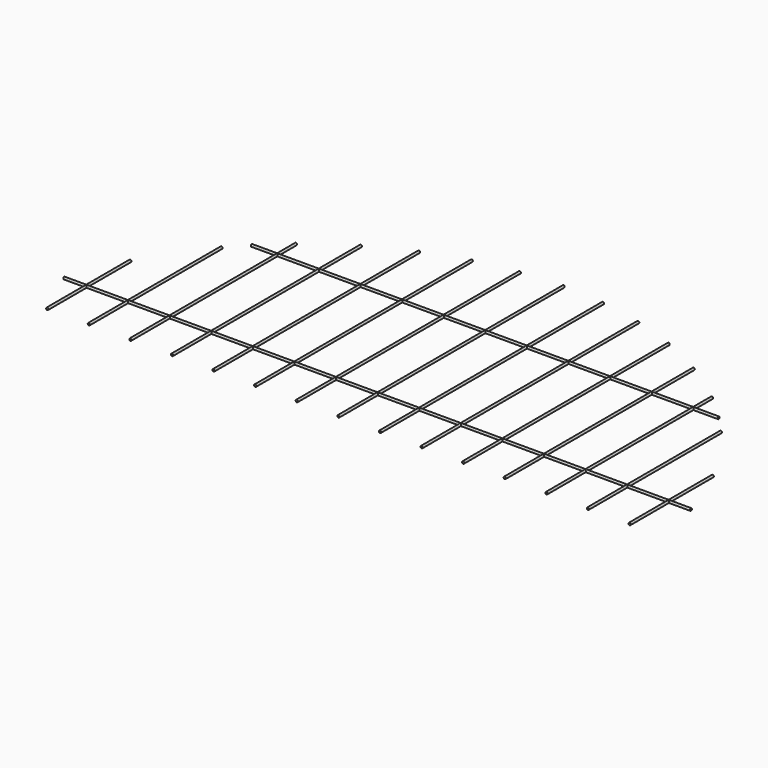
from build123d import *

# Parameters (mm, degrees)
F2_R  = 4.7625
F18_R = 4.7625


with BuildPart() as f3:
    # F3: sweep along a path in F0
    with BuildLine(Plane.XY) as f3_path:
        Line((-1209.04, 0), (-1209.04, 430.831865))
    # F2 (on Front) → F3 (sweep)
    with BuildSketch(Plane.XZ):
        with Locations((-1209.04, 0)):
            Circle(F2_R)
    sweep(path=f3_path.line)


with BuildPart() as f4:
    # F4: sweep along a path in F0
    with BuildLine(Plane.XY) as f4_path:
        Line((-1036.32, 0), (-1036.32, 688.956807))
    # F2 (on Front) → F4 (sweep)
    with BuildSketch(Plane.XZ):
        with Locations((-1036.32, 0)):
            Circle(F2_R)
    sweep(path=f4_path.line)


with BuildPart() as f5:
    # F5: sweep along a path in F0
    with BuildLine(Plane.XY) as f5_path:
        Line((-863.6, 0), (-863.6, 858.93646))
    # F2 (on Front) → F5 (sweep)
    with BuildSketch(Plane.XZ):
        with Locations((-863.6, 0)):
            Circle(F2_R)
    sweep(path=f5_path.line)


with BuildPart() as f6:
    # F6: sweep along a path in F0
    with BuildLine(Plane.XY) as f6_path:
        Line((-690.88, 0), (-690.88, 979.801864))
    # F2 (on Front) → F6 (sweep)
    with BuildSketch(Plane.XZ):
        with Locations((-690.88, 0)):
            Circle(F2_R)
    sweep(path=f6_path.line)


with BuildPart() as f7:
    # F7: sweep along a path in F0
    with BuildLine(Plane.XY) as f7_path:
        Line((-518.16, 0), (-518.16, 1065.799878))
    # F2 (on Front) → F7 (sweep)
    with BuildSketch(Plane.XZ):
        with Locations((-518.16, 0)):
            Circle(F2_R)
    sweep(path=f7_path.line)


with BuildPart() as f8:
    # F8: sweep along a path in F0
    with BuildLine(Plane.XY) as f8_path:
        Line((-345.44, 0), (-345.44, 1123.788521))
    # F2 (on Front) → F8 (sweep)
    with BuildSketch(Plane.XZ):
        with Locations((-345.44, 0)):
            Circle(F2_R)
    sweep(path=f8_path.line)


with BuildPart() as f9:
    # F9: sweep along a path in F0
    with BuildLine(Plane.XY) as f9_path:
        Line((-172.72, 0), (-172.72, 1157.385476))
    # F2 (on Front) → F9 (sweep)
    with BuildSketch(Plane.XZ):
        with Locations((-172.72, 0)):
            Circle(F2_R)
    sweep(path=f9_path.line)


with BuildPart() as f10:
    # F10: sweep along a path in F0
    with BuildLine(Plane.XY) as f10_path:
        Line((0, 0), (0, 1168.4))
    # F2 (on Front) → F10 (sweep)
    with BuildSketch(Plane.XZ):
        Circle(F2_R)
    sweep(path=f10_path.line)


with BuildPart() as f11:
    # F11: sweep along a path in F0
    with BuildLine(Plane.XY) as f11_path:
        Line((172.72, 0), (172.72, 1157.385476))
    # F2 (on Front) → F11 (sweep)
    with BuildSketch(Plane.XZ):
        with Locations((172.72, 0)):
            Circle(F2_R)
    sweep(path=f11_path.line)


with BuildPart() as f12:
    # F12: sweep along a path in F0
    with BuildLine(Plane.XY) as f12_path:
        Line((345.44, 0), (345.44, 1123.788521))
    # F2 (on Front) → F12 (sweep)
    with BuildSketch(Plane.XZ):
        with Locations((345.44, 0)):
            Circle(F2_R)
    sweep(path=f12_path.line)


with BuildPart() as f13:
    # F13: sweep along a path in F0
    with BuildLine(Plane.XY) as f13_path:
        Line((518.16, 0), (518.16, 1065.799878))
    # F2 (on Front) → F13 (sweep)
    with BuildSketch(Plane.XZ):
        with Locations((518.16, 0)):
            Circle(F2_R)
    sweep(path=f13_path.line)


with BuildPart() as f14:
    # F14: sweep along a path in F0
    with BuildLine(Plane.XY) as f14_path:
        Line((690.88, 0), (690.88, 979.801864))
    # F2 (on Front) → F14 (sweep)
    with BuildSketch(Plane.XZ):
        with Locations((690.88, 0)):
            Circle(F2_R)
    sweep(path=f14_path.line)


with BuildPart() as f15:
    # F15: sweep along a path in F0
    with BuildLine(Plane.XY) as f15_path:
        Line((863.6, 0), (863.6, 858.93646))
    # F2 (on Front) → F15 (sweep)
    with BuildSketch(Plane.XZ):
        with Locations((863.6, 0)):
            Circle(F2_R)
    sweep(path=f15_path.line)


with BuildPart() as f16:
    # F16: sweep along a path in F0
    with BuildLine(Plane.XY) as f16_path:
        Line((1036.32, 0), (1036.32, 688.956807))
    # F2 (on Front) → F16 (sweep)
    with BuildSketch(Plane.XZ):
        with Locations((1036.32, 0)):
            Circle(F2_R)
    sweep(path=f16_path.line)


with BuildPart() as f17:
    # F17: sweep along a path in F0
    with BuildLine(Plane.XY) as f17_path:
        Line((1209.04, 0), (1209.04, 430.831865))
    # F2 (on Front) → F17 (sweep)
    with BuildSketch(Plane.XZ):
        with Locations((1209.04, 0)):
            Circle(F2_R)
    sweep(path=f17_path.line)


with BuildPart() as f19:
    # F19: sweep along a path in F1
    with BuildLine(Plane.XY) as f19_path:
        Line((-969.549468, 762), (969.549468, 762))
    # F18 (on Right) → F19 (sweep)
    with BuildSketch(Plane.YZ):
        with Locations((762, 0)):
            Circle(F18_R)
    sweep(path=f19_path.line)


with BuildPart() as f20:
    # F20: sweep along a path in F1
    with BuildLine(Plane.XY) as f20_path:
        Line((-1301.233413, 203.2), (1301.233413, 203.2))
    # F18 (on Right) → F20 (sweep)
    with BuildSketch(Plane.YZ):
        with Locations((203.2, 0)):
            Circle(F18_R)
    sweep(path=f20_path.line)


solid = Compound([f3.part, f4.part, f5.part, f6.part, f7.part, f8.part, f9.part, f10.part, f11.part, f12.part, f13.part, f14.part, f15.part, f16.part, f17.part, f19.part, f20.part])
